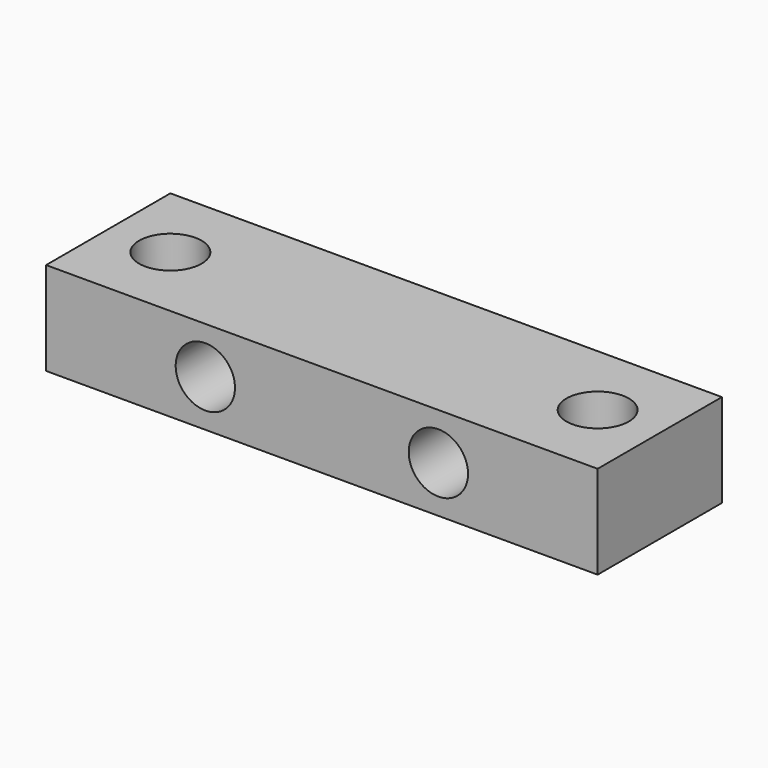
from build123d import *

# Parameters (mm, degrees)
F1_DEPTH = 7.62
F3_DEPTH = 25.4


with BuildPart() as f1:
    # F0 (on Top) → F1 (new body)
    with BuildSketch(Plane.XY):
        with BuildLine():
            Line((0, 6.35), (-22.5425, 6.35))
            Line((-22.5425, 6.35), (-22.5425, 0))
            Line((-22.5425, 0), (-20.0152, 0))
            ThreePointArc((-20.0152, 0), (-17.4625, 2.5527), (-14.9098, 0))
            Line((-14.9098, 0), (0, 0))
            Line((0, 0), (0, 6.35))
        make_face()
        with BuildLine():
            Line((22.5425, 6.35), (0, 6.35))
            Line((0, 6.35), (0, 0))
            Line((0, 0), (14.9098, 0))
            ThreePointArc((14.9098, 0), (17.4625, 2.5527), (20.0152, 0))
            Line((20.0152, 0), (22.5425, 0))
            Line((22.5425, 0), (22.5425, 6.35))
        make_face()
        with BuildLine():
            Line((-20.0152, 0), (-22.5425, 0))
            Line((-22.5425, 0), (-22.5425, -6.35))
            Line((-22.5425, -6.35), (0, -6.35))
            Line((0, -6.35), (0, 0))
            Line((0, 0), (-14.9098, 0))
            ThreePointArc((-14.9098, 0), (-17.4625, -2.5527), (-20.0152, 0))
        make_face()
        with BuildLine():
            Line((14.9098, 0), (0, 0))
            Line((0, 0), (0, -6.35))
            Line((0, -6.35), (22.5425, -6.35))
            Line((22.5425, -6.35), (22.5425, 0))
            Line((22.5425, 0), (20.0152, 0))
            ThreePointArc((20.0152, 0), (17.4625, -2.5527), (14.9098, 0))
        make_face()
    extrude(amount=F1_DEPTH)

    # F2 (on face) → F3 (cut)
    with BuildSketch(Plane(origin=(0, 6.35, 0), x_dir=(-1, 0, 0), z_dir=(0, 1, 0))):
        with BuildLine():
            Line((-11.9507, 3.81), (-7.0993, 3.81))
            ThreePointArc((-7.0993, 3.81), (-9.525, 6.2357), (-11.9507, 3.81))
        make_face()
        with BuildLine():
            ThreePointArc((-11.9507, 3.81), (-9.525, 1.3843), (-7.0993, 3.81))
            Line((-7.0993, 3.81), (-11.9507, 3.81))
        make_face()
        with BuildLine():
            ThreePointArc((7.0993, 3.81), (9.525, 1.3843), (11.9507, 3.81))
            Line((11.9507, 3.81), (7.0993, 3.81))
        make_face()
        with BuildLine():
            Line((7.0993, 3.81), (11.9507, 3.81))
            ThreePointArc((11.9507, 3.81), (9.525, 6.2357), (7.0993, 3.81))
        make_face()
    extrude(amount=-F3_DEPTH, mode=Mode.SUBTRACT)


solid = f1.part
